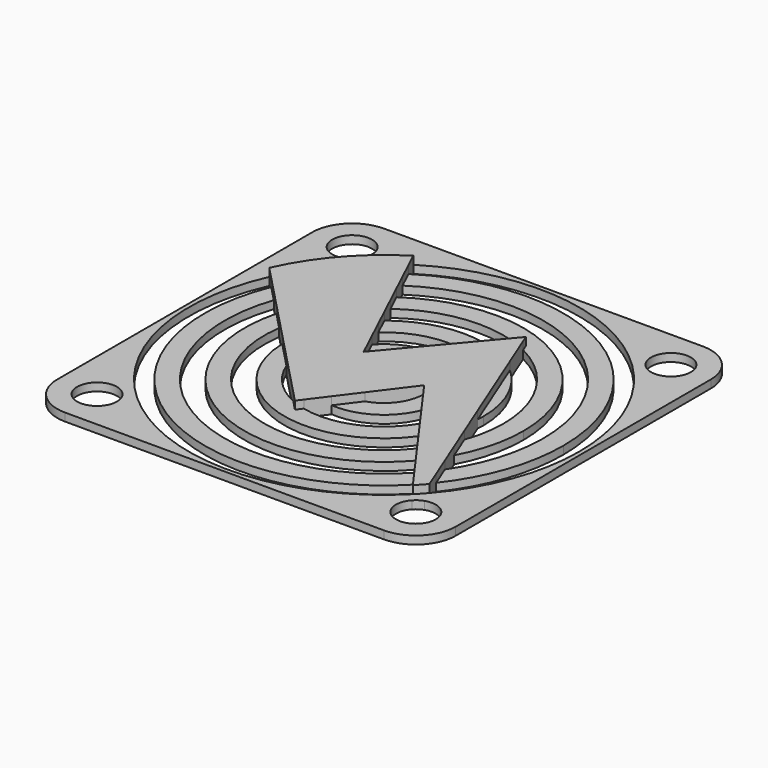
from build123d import *

# Parameters (mm, degrees)
F0_W     = 50
F0_H     = 50
F0_R     = 3.5
F0_R_2   = 2.5
F1_DEPTH = 1
F2_DEPTH = 2
F3_R     = 5


with BuildPart() as f1:
    # F0 (on Top) → F1 (new body)
    with BuildSketch(Plane.XY):
        Rectangle(F0_W, F0_H)
        with Locations((-20, -20)):
            Circle(F0_R, mode=Mode.SUBTRACT)
        with Locations((-20, 20)):
            Circle(F0_R, mode=Mode.SUBTRACT)
        with BuildLine():
            ThreePointArc((23.5, -20), (18.6270110009, -23.2194566635), (17.5771993095, -17.4741265245))
            Line((17.5771993095, -17.4741265245), (17.4086205584, -17.2391974945))
            ThreePointArc((17.4086205584, -17.2391974945), (-13.8331182922, -20.2211482936), (-22.3763686864, 9.9773806388))
            ThreePointArc((-22.3763686864, 9.9773806388), (-18.4779593257, 16.0877288378), (-12.9623567896, 20.7900771153))
            ThreePointArc((-12.9623567896, 20.7900771153), (11.8884872598, 21.422275105), (24.5, 0))
            ThreePointArc((24.5, 0), (22.9578459258, -8.5549582375), (18.5255256779, -16.0329316832))
            Line((18.5255256779, -16.0329316832), (18.7976972629, -16.7129849212))
            ThreePointArc((18.7976972629, -16.7129849212), (22.0052356994, -17.1313714444), (23.5, -20))
        make_face(mode=Mode.SUBTRACT)
        with Locations((20, 20)):
            Circle(F0_R, mode=Mode.SUBTRACT)
        with BuildLine():
            ThreePointArc((-12.9623567896, 20.7900771153), (-18.4779593257, 16.0877288378), (-22.3763686864, 9.9773806388))
            Line((-22.3763686864, 9.9773806388), (-20.8711196987, 8.4051390543))
            ThreePointArc((-20.8711196987, 8.4051390543), (-17.3121734711, 14.3714525956), (-12.1027830938, 18.9676735892))
            Line((-12.1027830938, 18.9676735892), (-12.9623567896, 20.7900771153))
        make_face()
        with BuildLine():
            ThreePointArc((-12.1027830938, 18.9676735892), (-17.3121734711, 14.3714525956), (-20.8711196987, 8.4051390543))
            Line((-20.8711196987, 8.4051390543), (-18.9491508236, 6.397631051))
            ThreePointArc((-18.9491508236, 6.397631051), (-15.8460260332, 12.2026004997), (-11.0264971881, 16.6858131285))
            Line((-11.0264971881, 16.6858131285), (-12.1027830938, 18.9676735892))
        make_face()
        with BuildLine():
            ThreePointArc((-11.0264971881, 16.6858131285), (-15.8460260332, 12.2026004997), (-18.9491508236, 6.397631051))
            Line((-18.9491508236, 6.397631051), (-16.9587523233, 4.3186478944))
            ThreePointArc((-16.9587523233, 4.3186478944), (-14.3660250029, 9.9933640791), (-9.9473635328, 14.3979150833))
            Line((-9.9473635328, 14.3979150833), (-11.0264971881, 16.6858131285))
        make_face()
        with BuildLine():
            ThreePointArc((-9.9473635328, 14.3979150833), (-14.3660250029, 9.9933640791), (-16.9587523233, 4.3186478944))
            Line((-16.9587523233, 4.3186478944), (-14.849995899, 2.1160391771))
            ThreePointArc((-14.849995899, 2.1160391771), (-12.8651308932, 7.7128728176), (-8.8639147293, 12.1008683851))
            Line((-8.8639147293, 12.1008683851), (-9.9473635328, 14.3979150833))
        make_face()
        with BuildLine():
            ThreePointArc((-8.8639147293, 12.1008683851), (-12.8651308932, 7.7128728176), (-14.849995899, 2.1160391771))
            Line((-14.849995899, 2.1160391771), (-12.4952800896, -0.3434755913))
            ThreePointArc((-12.4952800896, -0.3434755913), (-11.3301301239, 5.2799764559), (-7.7734498383, 9.7889467059))
            Line((-7.7734498383, 9.7889467059), (-8.8639147293, 12.1008683851))
        make_face()
        with BuildLine():
            ThreePointArc((-7.7734498383, 9.7889467059), (-11.3301301239, 5.2799764559), (-12.4952800896, -0.3434755913))
            Line((-12.4952800896, -0.3434755913), (-9.2963769315, -3.6847491023))
            ThreePointArc((-9.2963769315, -3.6847491023), (-9.7329978262, 2.2953765084), (-6.670358772, 7.4502559589))
            Line((-6.670358772, 7.4502559589), (-7.7734498383, 9.7889467059))
        make_face()
        with BuildLine():
            ThreePointArc((-6.670358772, 7.4502559589), (-9.7329978262, 2.2953765084), (-9.2963769315, -3.6847491023))
            Line((-9.2963769315, -3.6847491023), (-4.0858046945, -9.1272230168))
            ThreePointArc((-4.0858046945, -9.1272230168), (-3.1940488203, -9.476183416), (-2.2730034578, -9.7382470333))
            Line((-2.2730034578, -9.7382470333), (-0.575954004, -7.4778524314))
            ThreePointArc((-0.575954004, -7.4778524314), (-6.9728435303, -2.7621464664), (-5.5405526463, 5.0549259514))
            Line((-5.5405526463, 5.0549259514), (-6.670358772, 7.4502559589))
        make_face()
        with BuildLine():
            ThreePointArc((-5.5405526463, 5.0549259514), (-6.9728435303, -2.7621464664), (-0.575954004, -7.4778524314))
            Line((-0.575954004, -7.4778524314), (1.4444038201, -4.7868254203))
            ThreePointArc((1.4444038201, -4.7868254203), (-3.9168845093, -3.1077348247), (-4.3330657581, 2.4949030315))
            Line((-4.3330657581, 2.4949030315), (-5.5405526463, 5.0549259514))
        make_face()
        with BuildLine():
            Line((1.4444038201, -4.7868254203), (4.9997370367, -0.0512792683))
            ThreePointArc((4.9997370367, -0.0512792683), (4.9999342588, -0.0256399712), (5, 0))
            ThreePointArc((5, 0), (2.9222816207, 4.0571258458), (-1.5841080516, 4.7424257169))
            Line((-1.5841080516, 4.7424257169), (-4.0267086588, 1.8453877419))
            Line((-4.0267086588, 1.8453877419), (-4.3330657581, 2.4949030315))
            ThreePointArc((-4.3330657581, 2.4949030315), (-3.9168845093, -3.1077348247), (1.4444038201, -4.7868254203))
        make_face()
        with BuildLine():
            Line((5.0382362679, 0), (6.9896180853, -2.7194188756))
            ThreePointArc((6.9896180853, -2.7194188756), (7.3713002801, -1.3834493775), (7.5, 0))
            ThreePointArc((7.5, 0), (5.5494325298, 5.0451757747), (0.7123203741, 7.4660966833))
            Line((0.7123203741, 7.4660966833), (-1.5841080516, 4.7424257169))
            ThreePointArc((-1.5841080516, 4.7424257169), (2.9222816207, 4.0571258458), (5, 0))
            ThreePointArc((5, 0), (4.9999342588, -0.0256399712), (4.9997370367, -0.0512792683))
            Line((4.9997370367, -0.0512792683), (5.0382362679, 0))
        make_face()
        with BuildLine():
            Line((6.9896180853, -2.7194188756), (8.644997375, -5.0263326976))
            ThreePointArc((8.644997375, -5.0263326976), (9.6553087405, -2.6028855382), (10, 0))
            ThreePointArc((10, 0), (7.9266528427, 6.0965707337), (2.5663650578, 9.6650799474))
            Line((2.5663650578, 9.6650799474), (0.7123203741, 7.4660966833))
            ThreePointArc((0.7123203741, 7.4660966833), (5.5494325298, 5.0451757747), (7.5, 0))
            ThreePointArc((7.5, 0), (7.3713002801, -1.3834493775), (6.9896180853, -2.7194188756))
        make_face()
        with BuildLine():
            Line((8.644997375, -5.0263326976), (10.2114993781, -7.2093883548))
            ThreePointArc((10.2114993781, -7.2093883548), (11.7706927711, -4.2072308814), (12.4677792663, -0.8969281838))
            Line((12.4677792663, -0.8969281838), (8.4062966321, 9.2511716519))
            ThreePointArc((8.4062966321, 9.2511716519), (6.4782537194, 10.6902866541), (4.3102189136, 11.7333717625))
            Line((4.3102189136, 11.7333717625), (2.5663650578, 9.6650799474))
            ThreePointArc((2.5663650578, 9.6650799474), (7.9266528427, 6.0965707337), (10, 0))
            ThreePointArc((10, 0), (9.6553087405, -2.6028855382), (8.644997375, -5.0263326976))
        make_face()
        with BuildLine():
            Line((10.2114993781, -7.2093883548), (11.7389174346, -9.3379771612))
            ThreePointArc((11.7389174346, -9.3379771612), (13.1100600813, -7.2887807392), (14.1269841628, -5.0426499446))
            Line((14.1269841628, -5.0426499446), (12.4677792663, -0.8969281838))
            ThreePointArc((12.4677792663, -0.8969281838), (11.7706927711, -4.2072308814), (10.2114993781, -7.2093883548))
        make_face()
        with BuildLine():
            Line((11.7389174346, -9.3379771612), (13.2453224947, -11.4372825448))
            ThreePointArc((13.2453224947, -11.4372825448), (14.4198202083, -9.9155829461), (15.4203376918, -8.2742483328))
            Line((15.4203376918, -8.2742483328), (14.1269841628, -5.0426499446))
            ThreePointArc((14.1269841628, -5.0426499446), (13.1100600813, -7.2887807392), (11.7389174346, -9.3379771612))
        make_face()
        with BuildLine():
            Line((13.2453224947, -11.4372825448), (14.7390379273, -13.5189038379))
            ThreePointArc((14.7390379273, -13.5189038379), (15.704772219, -12.3838656949), (16.583307557, -11.1800675522))
            Line((16.583307557, -11.1800675522), (15.4203376918, -8.2742483328))
            ThreePointArc((15.4203376918, -8.2742483328), (14.4198202083, -9.9155829461), (13.2453224947, -11.4372825448))
        make_face()
        with BuildLine():
            Line((14.7390379273, -13.5189038379), (16.224472995, -15.5889857283))
            ThreePointArc((16.224472995, -15.5889857283), (16.9723110034, -14.7712781845), (17.6789827405, -13.9177429657))
            Line((17.6789827405, -13.9177429657), (16.583307557, -11.1800675522))
            ThreePointArc((16.583307557, -11.1800675522), (15.704772219, -12.3838656949), (14.7390379273, -13.5189038379))
        make_face()
        with BuildLine():
            Line((16.224472995, -15.5889857283), (17.4086205584, -17.2391974945))
            ThreePointArc((17.4086205584, -17.2391974945), (17.9771934888, -16.6454352381), (18.5255256779, -16.0329316832))
            Line((18.5255256779, -16.0329316832), (17.6789827405, -13.9177429657))
            ThreePointArc((17.6789827405, -13.9177429657), (16.9723110034, -14.7712781845), (16.224472995, -15.5889857283))
        make_face()
        with BuildLine():
            Line((17.4086205584, -17.2391974945), (17.5771993095, -17.4741265245))
            ThreePointArc((17.5771993095, -17.4741265245), (18.1479260678, -17.0301814618), (18.7976972629, -16.7129849212))
            Line((18.7976972629, -16.7129849212), (18.5255256779, -16.0329316832))
            ThreePointArc((18.5255256779, -16.0329316832), (17.9771934888, -16.6454352381), (17.4086205584, -17.2391974945))
        make_face()
        with BuildLine():
            ThreePointArc((22.5, -20), (22.0993136417, -21.3575279863), (21.0256942131, -22.2799016166))
            ThreePointArc((21.0256942131, -22.2799016166), (17.9688292761, -21.4575134615), (18.1685795283, -18.298265868))
            Line((18.1685795283, -18.298265868), (17.5771993095, -17.4741265245))
            ThreePointArc((17.5771993095, -17.4741265245), (18.6270110009, -23.2194566635), (23.5, -20))
            ThreePointArc((23.5, -20), (22.0052356994, -17.1313714444), (18.7976972629, -16.7129849212))
            Line((18.7976972629, -16.7129849212), (19.1694996754, -17.6419776908))
            ThreePointArc((19.1694996754, -17.6419776908), (21.4446018809, -17.9596261603), (22.5, -20))
        make_face()
        with BuildLine():
            Line((17.5771993095, -17.4741265245), (18.1685795283, -18.298265868))
            ThreePointArc((18.1685795283, -18.298265868), (18.6291848687, -17.909338412), (19.1694996754, -17.6419776908))
            Line((19.1694996754, -17.6419776908), (18.7976972629, -16.7129849212))
            ThreePointArc((18.7976972629, -16.7129849212), (18.1479260678, -17.0301814618), (17.5771993095, -17.4741265245))
        make_face()
        with Locations((-20, -20)):
            Circle(F0_R)
        with Locations((-20, -20)):
            Circle(F0_R_2, mode=Mode.SUBTRACT)
        with Locations((20, 20)):
            Circle(F0_R)
        with Locations((20, 20)):
            Circle(F0_R_2, mode=Mode.SUBTRACT)
        with Locations((-20, 20)):
            Circle(F0_R)
        with Locations((-20, 20)):
            Circle(F0_R_2, mode=Mode.SUBTRACT)
        with BuildLine():
            ThreePointArc((4.3102189136, 11.7333717625), (6.4782537194, 10.6902866541), (8.4062966321, 9.2511716519))
            Line((8.4062966321, 9.2511716519), (6.7470917355, 13.3968934127))
            ThreePointArc((6.7470917355, 13.3968934127), (6.3790622823, 13.5759922068), (6.0062833463, 13.744983098))
            Line((6.0062833463, 13.744983098), (4.3102189136, 11.7333717625))
        make_face()
        with BuildLine():
            ThreePointArc((6.0062833463, 13.744983098), (6.3790622823, 13.5759922068), (6.7470917355, 13.3968934127))
            Line((6.7470917355, 13.3968934127), (6.4141652547, 14.2287500203))
            Line((6.4141652547, 14.2287500203), (6.0062833463, 13.744983098))
        make_face()
        with BuildLine():
            Line((-2.8126535472, -10.4570370167), (-2.2730034578, -9.7382470333))
            ThreePointArc((-2.2730034578, -9.7382470333), (-3.1940488203, -9.476183416), (-4.0858046945, -9.1272230168))
            Line((-4.0858046945, -9.1272230168), (-2.8126535472, -10.4570370167))
        make_face()
        with BuildLine():
            ThreePointArc((-20.8711196987, 8.4051390543), (-12.2199565227, -18.8923969518), (16.224472995, -15.5889857283))
            Line((16.224472995, -15.5889857283), (14.7390379273, -13.5189038379))
            ThreePointArc((14.7390379273, -13.5189038379), (-10.1783276202, -17.2163192017), (-18.9491508236, 6.397631051))
            Line((-18.9491508236, 6.397631051), (-20.8711196987, 8.4051390543))
        make_face()
        with BuildLine():
            ThreePointArc((-16.9587523233, 4.3186478944), (-8.0938078971, -15.5158072212), (13.2453224947, -11.4372825448))
            Line((13.2453224947, -11.4372825448), (11.7389174346, -9.3379771612))
            ThreePointArc((11.7389174346, -9.3379771612), (-5.9345029171, -13.7761270003), (-14.849995899, 2.1160391771))
            Line((-14.849995899, 2.1160391771), (-16.9587523233, 4.3186478944))
        make_face()
        with BuildLine():
            ThreePointArc((-12.4952800896, -0.3434755913), (-3.6178865521, -11.964986289), (10.2114993781, -7.2093883548))
            Line((10.2114993781, -7.2093883548), (8.644997375, -5.0263326976))
            ThreePointArc((8.644997375, -5.0263326976), (3.9624627187, -9.1814426537), (-2.2730034578, -9.7382470333))
            Line((-2.2730034578, -9.7382470333), (-2.8126535472, -10.4570370167))
            Line((-2.8126535472, -10.4570370167), (-4.0858046945, -9.1272230168))
            ThreePointArc((-4.0858046945, -9.1272230168), (-7.2232836609, -6.915502379), (-9.2963769315, -3.6847491023))
            Line((-9.2963769315, -3.6847491023), (-12.4952800896, -0.3434755913))
        make_face()
        with BuildLine():
            ThreePointArc((-0.575954004, -7.4778524314), (3.993049488, -6.3486656698), (6.9896180853, -2.7194188756))
            Line((6.9896180853, -2.7194188756), (5.0382362679, 0))
            Line((5.0382362679, 0), (4.9997370367, -0.0512792683))
            ThreePointArc((4.9997370367, -0.0512792683), (3.9985106209, -3.0019848126), (1.4444038201, -4.7868254203))
            Line((1.4444038201, -4.7868254203), (-0.575954004, -7.4778524314))
        make_face()
        with BuildLine():
            Line((16.583307557, -11.1800675522), (17.6789827405, -13.9177429657))
            ThreePointArc((17.6789827405, -13.9177429657), (21.2606104294, -7.3645396441), (22.5, 0))
            ThreePointArc((22.5, 0), (10.8152064333, 19.7302131211), (-12.1027830938, 18.9676735892))
            Line((-12.1027830938, 18.9676735892), (-11.0264971881, 16.6858131285))
            ThreePointArc((-11.0264971881, 16.6858131285), (9.4728574421, 17.6143399502), (20, 0))
            ThreePointArc((20, 0), (19.1267633323, -5.8452480213), (16.583307557, -11.1800675522))
        make_face()
        with BuildLine():
            Line((14.1269841628, -5.0426499446), (15.4203376918, -8.2742483328))
            ThreePointArc((15.4203376918, -8.2742483328), (16.9721228726, -4.2657994792), (17.5, 0))
            ThreePointArc((17.5, 0), (8.1293031121, 15.497239461), (-9.9473635328, 14.3979150833))
            Line((-9.9473635328, 14.3979150833), (-8.8639147293, 12.1008683851))
            ThreePointArc((-8.8639147293, 12.1008683851), (-1.6484212379, 14.9091484473), (6.0062833463, 13.744983098))
            Line((6.0062833463, 13.744983098), (6.4141652547, 14.2287500203))
            Line((6.4141652547, 14.2287500203), (6.7470917355, 13.3968934127))
            ThreePointArc((6.7470917355, 13.3968934127), (12.77118585, 7.8674526998), (15, 0))
            ThreePointArc((15, 0), (14.7801346821, -2.5588315261), (14.1269841628, -5.0426499446))
        make_face()
        with BuildLine():
            Line((8.4062966321, 9.2511716519), (12.4677792663, -0.8969281838))
            ThreePointArc((12.4677792663, -0.8969281838), (12.4919422195, -0.4487533684), (12.5, 0))
            ThreePointArc((12.5, 0), (11.4308509723, 5.0582255831), (8.4062966321, 9.2511716519))
        make_face()
        with BuildLine():
            ThreePointArc((4.3102189136, 11.7333717625), (-1.9858724304, 12.3412442926), (-7.7734498383, 9.7889467059))
            Line((-7.7734498383, 9.7889467059), (-6.670358772, 7.4502559589))
            ThreePointArc((-6.670358772, 7.4502559589), (-2.3317487915, 9.7243481824), (2.5663650578, 9.6650799474))
            Line((2.5663650578, 9.6650799474), (4.3102189136, 11.7333717625))
        make_face()
        with BuildLine():
            ThreePointArc((0.7123203741, 7.4660966833), (-2.698405602, 6.9977572984), (-5.5405526463, 5.0549259514))
            Line((-5.5405526463, 5.0549259514), (-4.3330657581, 2.4949030315))
            ThreePointArc((-4.3330657581, 2.4949030315), (-3.1648184828, 3.8709073834), (-1.5841080516, 4.7424257169))
            Line((-1.5841080516, 4.7424257169), (0.7123203741, 7.4660966833))
        make_face()
    extrude(amount=F1_DEPTH)

    # F0 (on Top) → F2 (join)
    with BuildSketch(Plane.XY):
        with BuildLine():
            Line((16.224472995, -15.5889857283), (17.4086205584, -17.2391974945))
            ThreePointArc((17.4086205584, -17.2391974945), (17.9771934888, -16.6454352381), (18.5255256779, -16.0329316832))
            Line((18.5255256779, -16.0329316832), (17.6789827405, -13.9177429657))
            ThreePointArc((17.6789827405, -13.9177429657), (16.9723110034, -14.7712781845), (16.224472995, -15.5889857283))
        make_face()
        with BuildLine():
            Line((14.7390379273, -13.5189038379), (16.224472995, -15.5889857283))
            ThreePointArc((16.224472995, -15.5889857283), (16.9723110034, -14.7712781845), (17.6789827405, -13.9177429657))
            Line((17.6789827405, -13.9177429657), (16.583307557, -11.1800675522))
            ThreePointArc((16.583307557, -11.1800675522), (15.704772219, -12.3838656949), (14.7390379273, -13.5189038379))
        make_face()
        with BuildLine():
            Line((13.2453224947, -11.4372825448), (14.7390379273, -13.5189038379))
            ThreePointArc((14.7390379273, -13.5189038379), (15.704772219, -12.3838656949), (16.583307557, -11.1800675522))
            Line((16.583307557, -11.1800675522), (15.4203376918, -8.2742483328))
            ThreePointArc((15.4203376918, -8.2742483328), (14.4198202083, -9.9155829461), (13.2453224947, -11.4372825448))
        make_face()
        with BuildLine():
            Line((11.7389174346, -9.3379771612), (13.2453224947, -11.4372825448))
            ThreePointArc((13.2453224947, -11.4372825448), (14.4198202083, -9.9155829461), (15.4203376918, -8.2742483328))
            Line((15.4203376918, -8.2742483328), (14.1269841628, -5.0426499446))
            ThreePointArc((14.1269841628, -5.0426499446), (13.1100600813, -7.2887807392), (11.7389174346, -9.3379771612))
        make_face()
        with BuildLine():
            Line((10.2114993781, -7.2093883548), (11.7389174346, -9.3379771612))
            ThreePointArc((11.7389174346, -9.3379771612), (13.1100600813, -7.2887807392), (14.1269841628, -5.0426499446))
            Line((14.1269841628, -5.0426499446), (12.4677792663, -0.8969281838))
            ThreePointArc((12.4677792663, -0.8969281838), (11.7706927711, -4.2072308814), (10.2114993781, -7.2093883548))
        make_face()
        with BuildLine():
            Line((8.644997375, -5.0263326976), (10.2114993781, -7.2093883548))
            ThreePointArc((10.2114993781, -7.2093883548), (11.7706927711, -4.2072308814), (12.4677792663, -0.8969281838))
            Line((12.4677792663, -0.8969281838), (8.4062966321, 9.2511716519))
            ThreePointArc((8.4062966321, 9.2511716519), (6.4782537194, 10.6902866541), (4.3102189136, 11.7333717625))
            Line((4.3102189136, 11.7333717625), (2.5663650578, 9.6650799474))
            ThreePointArc((2.5663650578, 9.6650799474), (7.9266528427, 6.0965707337), (10, 0))
            ThreePointArc((10, 0), (9.6553087405, -2.6028855382), (8.644997375, -5.0263326976))
        make_face()
        with BuildLine():
            Line((6.9896180853, -2.7194188756), (8.644997375, -5.0263326976))
            ThreePointArc((8.644997375, -5.0263326976), (9.6553087405, -2.6028855382), (10, 0))
            ThreePointArc((10, 0), (7.9266528427, 6.0965707337), (2.5663650578, 9.6650799474))
            Line((2.5663650578, 9.6650799474), (0.7123203741, 7.4660966833))
            ThreePointArc((0.7123203741, 7.4660966833), (5.5494325298, 5.0451757747), (7.5, 0))
            ThreePointArc((7.5, 0), (7.3713002801, -1.3834493775), (6.9896180853, -2.7194188756))
        make_face()
        with BuildLine():
            Line((5.0382362679, 0), (6.9896180853, -2.7194188756))
            ThreePointArc((6.9896180853, -2.7194188756), (7.3713002801, -1.3834493775), (7.5, 0))
            ThreePointArc((7.5, 0), (5.5494325298, 5.0451757747), (0.7123203741, 7.4660966833))
            Line((0.7123203741, 7.4660966833), (-1.5841080516, 4.7424257169))
            ThreePointArc((-1.5841080516, 4.7424257169), (2.9222816207, 4.0571258458), (5, 0))
            ThreePointArc((5, 0), (4.9999342588, -0.0256399712), (4.9997370367, -0.0512792683))
            Line((4.9997370367, -0.0512792683), (5.0382362679, 0))
        make_face()
        with BuildLine():
            Line((1.4444038201, -4.7868254203), (4.9997370367, -0.0512792683))
            ThreePointArc((4.9997370367, -0.0512792683), (4.9999342588, -0.0256399712), (5, 0))
            ThreePointArc((5, 0), (2.9222816207, 4.0571258458), (-1.5841080516, 4.7424257169))
            Line((-1.5841080516, 4.7424257169), (-4.0267086588, 1.8453877419))
            Line((-4.0267086588, 1.8453877419), (-4.3330657581, 2.4949030315))
            ThreePointArc((-4.3330657581, 2.4949030315), (-3.9168845093, -3.1077348247), (1.4444038201, -4.7868254203))
        make_face()
        with BuildLine():
            ThreePointArc((-5.5405526463, 5.0549259514), (-6.9728435303, -2.7621464664), (-0.575954004, -7.4778524314))
            Line((-0.575954004, -7.4778524314), (1.4444038201, -4.7868254203))
            ThreePointArc((1.4444038201, -4.7868254203), (-3.9168845093, -3.1077348247), (-4.3330657581, 2.4949030315))
            Line((-4.3330657581, 2.4949030315), (-5.5405526463, 5.0549259514))
        make_face()
        with BuildLine():
            ThreePointArc((-6.670358772, 7.4502559589), (-9.7329978262, 2.2953765084), (-9.2963769315, -3.6847491023))
            Line((-9.2963769315, -3.6847491023), (-4.0858046945, -9.1272230168))
            ThreePointArc((-4.0858046945, -9.1272230168), (-3.1940488203, -9.476183416), (-2.2730034578, -9.7382470333))
            Line((-2.2730034578, -9.7382470333), (-0.575954004, -7.4778524314))
            ThreePointArc((-0.575954004, -7.4778524314), (-6.9728435303, -2.7621464664), (-5.5405526463, 5.0549259514))
            Line((-5.5405526463, 5.0549259514), (-6.670358772, 7.4502559589))
        make_face()
        with BuildLine():
            ThreePointArc((-7.7734498383, 9.7889467059), (-11.3301301239, 5.2799764559), (-12.4952800896, -0.3434755913))
            Line((-12.4952800896, -0.3434755913), (-9.2963769315, -3.6847491023))
            ThreePointArc((-9.2963769315, -3.6847491023), (-9.7329978262, 2.2953765084), (-6.670358772, 7.4502559589))
            Line((-6.670358772, 7.4502559589), (-7.7734498383, 9.7889467059))
        make_face()
        with BuildLine():
            ThreePointArc((-8.8639147293, 12.1008683851), (-12.8651308932, 7.7128728176), (-14.849995899, 2.1160391771))
            Line((-14.849995899, 2.1160391771), (-12.4952800896, -0.3434755913))
            ThreePointArc((-12.4952800896, -0.3434755913), (-11.3301301239, 5.2799764559), (-7.7734498383, 9.7889467059))
            Line((-7.7734498383, 9.7889467059), (-8.8639147293, 12.1008683851))
        make_face()
        with BuildLine():
            ThreePointArc((-9.9473635328, 14.3979150833), (-14.3660250029, 9.9933640791), (-16.9587523233, 4.3186478944))
            Line((-16.9587523233, 4.3186478944), (-14.849995899, 2.1160391771))
            ThreePointArc((-14.849995899, 2.1160391771), (-12.8651308932, 7.7128728176), (-8.8639147293, 12.1008683851))
            Line((-8.8639147293, 12.1008683851), (-9.9473635328, 14.3979150833))
        make_face()
        with BuildLine():
            ThreePointArc((-11.0264971881, 16.6858131285), (-15.8460260332, 12.2026004997), (-18.9491508236, 6.397631051))
            Line((-18.9491508236, 6.397631051), (-16.9587523233, 4.3186478944))
            ThreePointArc((-16.9587523233, 4.3186478944), (-14.3660250029, 9.9933640791), (-9.9473635328, 14.3979150833))
            Line((-9.9473635328, 14.3979150833), (-11.0264971881, 16.6858131285))
        make_face()
        with BuildLine():
            ThreePointArc((-12.1027830938, 18.9676735892), (-17.3121734711, 14.3714525956), (-20.8711196987, 8.4051390543))
            Line((-20.8711196987, 8.4051390543), (-18.9491508236, 6.397631051))
            ThreePointArc((-18.9491508236, 6.397631051), (-15.8460260332, 12.2026004997), (-11.0264971881, 16.6858131285))
            Line((-11.0264971881, 16.6858131285), (-12.1027830938, 18.9676735892))
        make_face()
        with BuildLine():
            ThreePointArc((-12.9623567896, 20.7900771153), (-18.4779593257, 16.0877288378), (-22.3763686864, 9.9773806388))
            Line((-22.3763686864, 9.9773806388), (-20.8711196987, 8.4051390543))
            ThreePointArc((-20.8711196987, 8.4051390543), (-17.3121734711, 14.3714525956), (-12.1027830938, 18.9676735892))
            Line((-12.1027830938, 18.9676735892), (-12.9623567896, 20.7900771153))
        make_face()
        with BuildLine():
            Line((-2.8126535472, -10.4570370167), (-2.2730034578, -9.7382470333))
            ThreePointArc((-2.2730034578, -9.7382470333), (-3.1940488203, -9.476183416), (-4.0858046945, -9.1272230168))
            Line((-4.0858046945, -9.1272230168), (-2.8126535472, -10.4570370167))
        make_face()
        with BuildLine():
            ThreePointArc((4.3102189136, 11.7333717625), (6.4782537194, 10.6902866541), (8.4062966321, 9.2511716519))
            Line((8.4062966321, 9.2511716519), (6.7470917355, 13.3968934127))
            ThreePointArc((6.7470917355, 13.3968934127), (6.3790622823, 13.5759922068), (6.0062833463, 13.744983098))
            Line((6.0062833463, 13.744983098), (4.3102189136, 11.7333717625))
        make_face()
        with BuildLine():
            ThreePointArc((6.0062833463, 13.744983098), (6.3790622823, 13.5759922068), (6.7470917355, 13.3968934127))
            Line((6.7470917355, 13.3968934127), (6.4141652547, 14.2287500203))
            Line((6.4141652547, 14.2287500203), (6.0062833463, 13.744983098))
        make_face()
    extrude(amount=F2_DEPTH)

    # F3
    f3_edges = [f1.edges().sort_by_distance(p)[0] for p in [
        (25, 25, 0.5),
        (25, -25, 0.5),
        (-25, -25, 0.5),
        (-25, 25, 0.5),
    ]]
    fillet(f3_edges, radius=F3_R)


solid = f1.part
